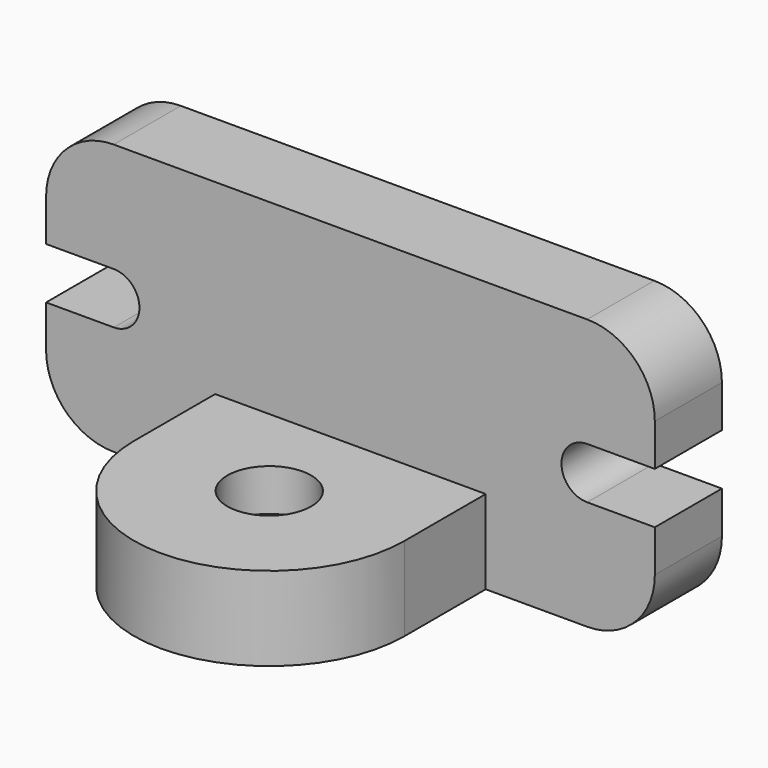
from build123d import *

# Parameters (mm, degrees)
F0_W     = 50.8
F0_H     = 15.748
F1_DEPTH = 15.748
F2_W     = 50.8
F2_H     = 19.05
F3_DEPTH = 15.748
F5_D     = 15.748
F7_D     = 31.75
F7_DEPTH = 3.048
F7_TIP   = 9.5386623271


with BuildPart() as f1:
    # F0 (on Front) → F1 (new body)
    with BuildSketch(Plane.XZ):
        with BuildLine():
            Line((44.45, 25.4), (-44.45, 25.4))
            ThreePointArc((-44.45, 25.4), (-53.4302561211, 21.6802561211), (-57.15, 12.7))
            Line((-57.15, 12.7), (-57.15, 4.826))
            Line((-57.15, 4.826), (-44.45, 4.826))
            ThreePointArc((-44.45, 4.826), (-39.624, 0), (-44.45, -4.826))
            Line((-44.45, -4.826), (-57.15, -4.826))
            Line((-57.15, -4.826), (-57.15, -12.7))
            ThreePointArc((-57.15, -12.7), (-53.4302561211, -21.6802561211), (-44.45, -25.4))
            Line((-44.45, -25.4), (-25.4, -25.4))
            Line((-25.4, -25.4), (-25.4, -9.652))
            Line((-25.4, -9.652), (25.4, -9.652))
            Line((25.4, -9.652), (25.4, -25.4))
            Line((25.4, -25.4), (44.45, -25.4))
            ThreePointArc((44.45, -25.4), (53.4302561211, -21.6802561211), (57.15, -12.7))
            Line((57.15, -12.7), (57.15, -4.826))
            Line((57.15, -4.826), (44.45, -4.826))
            ThreePointArc((44.45, -4.826), (39.624, 0), (44.45, 4.826))
            Line((44.45, 4.826), (57.15, 4.826))
            Line((57.15, 4.826), (57.15, 12.7))
            ThreePointArc((57.15, 12.7), (53.4302561211, 21.6802561211), (44.45, 25.4))
        make_face()
        with Locations((0, -17.526)):
            Rectangle(F0_W, F0_H)
    extrude(amount=F1_DEPTH)


with BuildPart() as f3:
    # F2 (on face) → F3 (new body)
    with BuildSketch(Plane(origin=(0, 0, -25.4), x_dir=(1, 0, 0), z_dir=(0, 0, -1))):
        with Locations((0, 25.273)):
            Rectangle(F2_W, F2_H)
        with BuildLine():
            ThreePointArc((25.4, 34.798), (0, 60.198), (-25.4, 34.798))
            Line((-25.4, 34.798), (25.4, 34.798))
        make_face()
    extrude(amount=-F3_DEPTH)

    # F5 (through all)
    with Locations(Plane(origin=(0, 0, -25.4), x_dir=(1, 0, 0), z_dir=(0, 0, -1))):
        with Locations((0, 34.798)):
            Hole(F5_D / 2)

    # F7
    with Locations(Plane(origin=(0, 0, -25.4), x_dir=(1, 0, 0), z_dir=(0, 0, -1))):
        with Locations((0, 34.798)):
            Hole(F7_D / 2, depth=F7_DEPTH)
            with Locations((0, 0, -(F7_DEPTH + F7_TIP / 2))):  # 118° drill point
                Cone(0, F7_D / 2, F7_TIP, mode=Mode.SUBTRACT)


solid = Compound([f1.part, f3.part])
